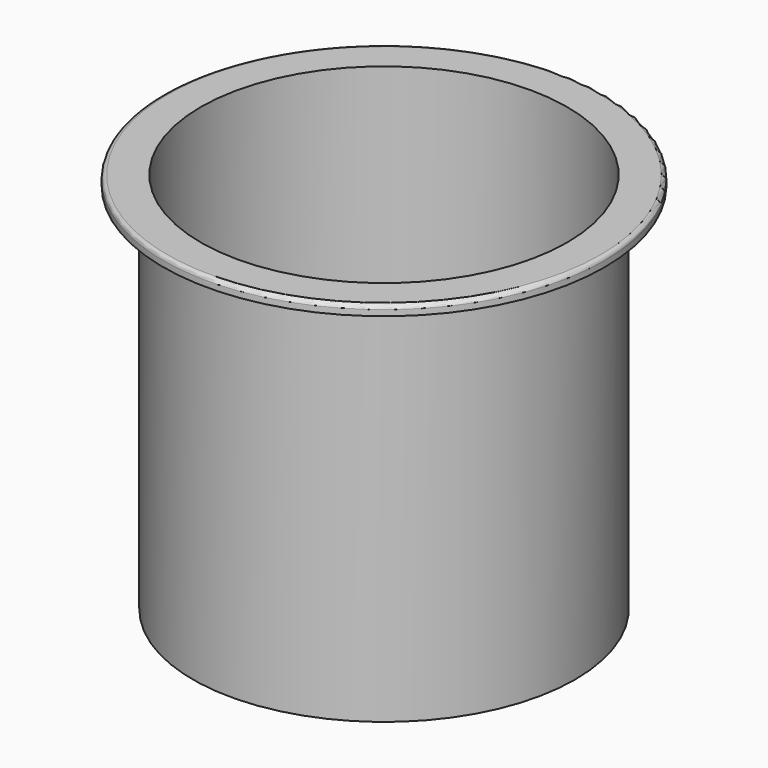
from build123d import *

# Parameters (mm, degrees)
F0_R     = 19.5
F0_R_2   = 18.7
F1_DEPTH = 38
F0_R_3   = 22.5
F2_DEPTH = 1
F3_R     = 0.4


with BuildPart() as f1:
    # F0 (on Top) → F1 (new body)
    with BuildSketch(Plane.XY):
        Circle(F0_R)
        Circle(F0_R_2, mode=Mode.SUBTRACT)
    extrude(amount=-F1_DEPTH)

    # F0 (on Top) → F2 (join)
    with BuildSketch(Plane.XY):
        Circle(F0_R_3)
        Circle(F0_R, mode=Mode.SUBTRACT)
        Circle(F0_R)
        Circle(F0_R_2, mode=Mode.SUBTRACT)
    extrude(amount=F2_DEPTH)

    # F3
    f3_edges = [f1.edges().sort_by_distance(p)[0] for p in [
        (-22.5, 0, 1),
    ]]
    fillet(f3_edges, radius=F3_R)


solid = f1.part
